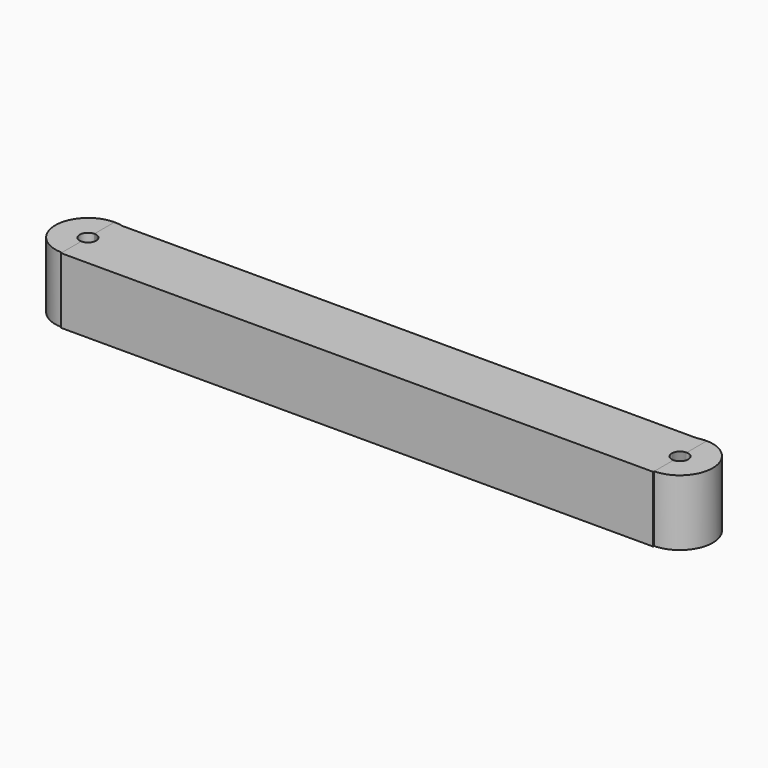
from build123d import *

# Parameters (mm, degrees)
F1_R     = 12.7
F2_DEPTH = 25.4
F0_W     = 228.6
F0_H     = 25.4
F4_D     = 6.35
F4_2_D   = 6.35
F6_D     = 6.35
F6_2_D   = 6.35


with BuildPart() as f2:
    # F1 (on Top) → F2 (new body)
    with BuildSketch(Plane.XY):
        with Locations((-70.3600868583, 10.4137500748)):
            Circle(F1_R)
    extrude(amount=F2_DEPTH)

    # F4 (through all)
    with Locations(Plane(origin=(0, 0, 0), x_dir=(1, 0, 0), z_dir=(0, 0, -1))):
        with Locations((-70.2958703041, -10.2171041071)):
            Hole(F4_D / 2)


with BuildPart() as f2b:
    # F1 (on Top) → F2, piece 2 (new body)
    with BuildSketch(Plane.XY):
        with Locations((157.9982936382, 10.4137500748)):
            Circle(F1_R)
    extrude(amount=F2_DEPTH)

    # F6 (through all)
    with Locations(Plane(origin=(0, 0, 0), x_dir=(1, 0, 0), z_dir=(0, 0, -1))):
        with Locations((158.2219004631, -10.2171041071)):
            Hole(F6_D / 2)


with BuildPart() as f2c:
    # F0 (on Top) → F2, piece 3 (new body)
    with BuildSketch(Plane.XY):
        with Locations((43.9399131417, 9.9658453044)):
            Rectangle(F0_W, F0_H)
    extrude(amount=F2_DEPTH)

    # F4#2 (through all)
    with Locations(Plane(origin=(0, 0, 0), x_dir=(1, 0, 0), z_dir=(0, 0, -1))):
        with Locations((-70.2958703041, -10.2171041071)):
            Hole(F4_2_D / 2)

    # F6#2 (through all)
    with Locations(Plane(origin=(0, 0, 0), x_dir=(1, 0, 0), z_dir=(0, 0, -1))):
        with Locations((158.2219004631, -10.2171041071)):
            Hole(F6_2_D / 2)


solid = Compound([f2.part, f2b.part, f2c.part])
